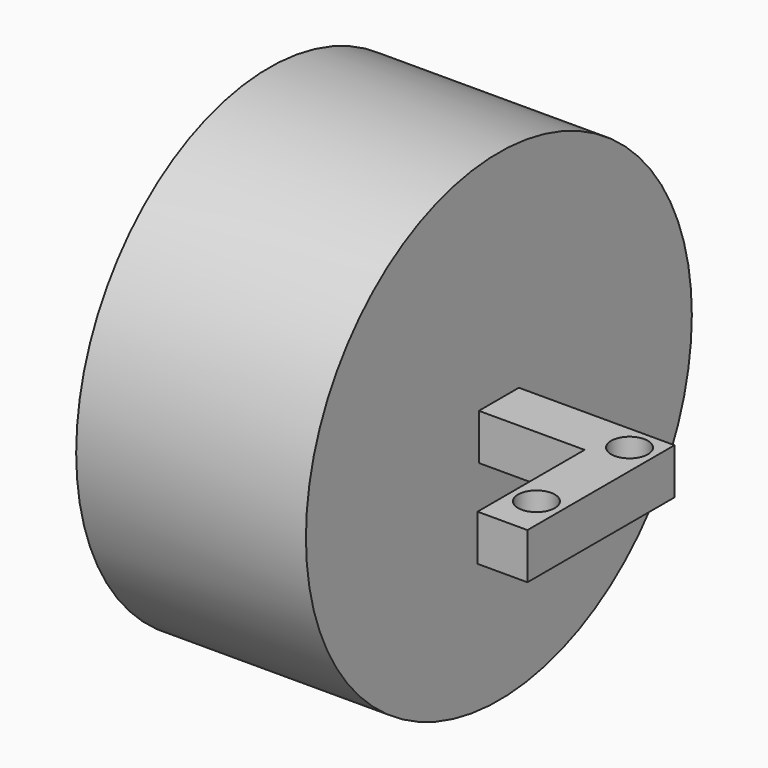
from build123d import *

# Parameters (mm, degrees)
F0_W     = 11.502954
F0_H     = 5.439917
F0_R     = 2
F1_DEPTH = 5
F2_R     = 26.244691
F2_W     = 5.439917
F2_H     = 5
F3_DEPTH = 25


with BuildPart() as f1:
    # F0 (on Top) → F1 (new body)
    with BuildSketch(Plane.XY):
        with Locations((-8.466349, 7.280041)):
            Rectangle(F0_W, F0_H)
        Polygon((2.714872, -10), (2.714872, 10), (-2.714872, 10), (-2.714872, 4.560083), (-2.714872, -10), align=None)
        with Locations((0, -5.382567)):
            Circle(F0_R, mode=Mode.SUBTRACT)
        with Locations((0, 7.280042)):
            Circle(F0_R, mode=Mode.SUBTRACT)
    extrude(amount=F1_DEPTH)

    # F2 (on face) → F3 (join)
    with BuildSketch(Plane(origin=(-14.217826, 0, 0), x_dir=(0, -1, 0), z_dir=(-1, 0, 0))):
        with Locations((-7.280042, 2.397668)):
            Circle(F2_R)
        with Locations((-7.280041, 2.5)):
            Rectangle(F2_W, F2_H, mode=Mode.SUBTRACT)
        with Locations((-7.280041, 2.5)):
            Rectangle(F2_W, F2_H)
    extrude(amount=F3_DEPTH)


solid = f1.part
